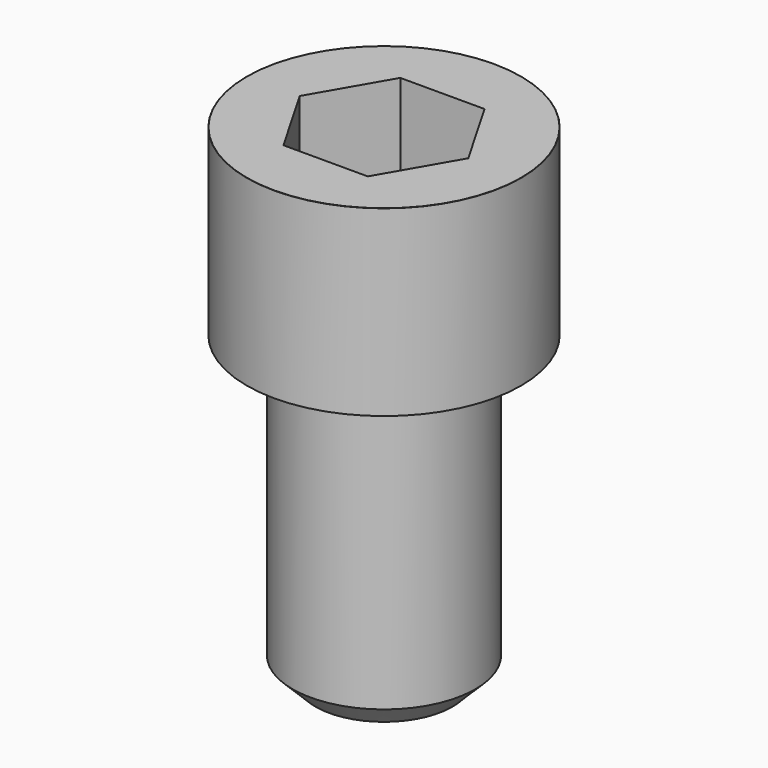
from build123d import *

# Parameters (mm, degrees)
POCKET_DEPTH = 19.15


with BuildPart() as part:
    # Sketch → Revolve (revolve)
    with BuildSketch(Plane.YZ):
        with BuildLine():
            Line((11.999, 0), (18, 0))
            Line((18, 0), (18, 23.97229))
            ThreePointArc((18, 23.97229), (17.991884, 23.991884), (17.97229, 24))
            Line((17.97229, 24), (0, 24))
            Line((0, -40), (0, 24))
            Line((9, -40), (0, -40))
            Line((12, -37), (9, -40))
            Line((12, -0.2), (12, -37))
            Line((11.999, 0), (12, -0.2))
        make_face()
    revolve(axis=Axis((0, 0, 0), (0, 0, 1)))

    # Sketch001 → Pocket (cut)
    with BuildSketch(Plane.XY.offset(24)):
        Polygon((11.056258, 0), (5.528129, 9.575), (-5.528129, 9.575), (-11.056258, 0), (-5.528129, -9.575), (5.528129, -9.575), align=None)
    extrude(amount=-POCKET_DEPTH, mode=Mode.SUBTRACT)


solid = part.part
